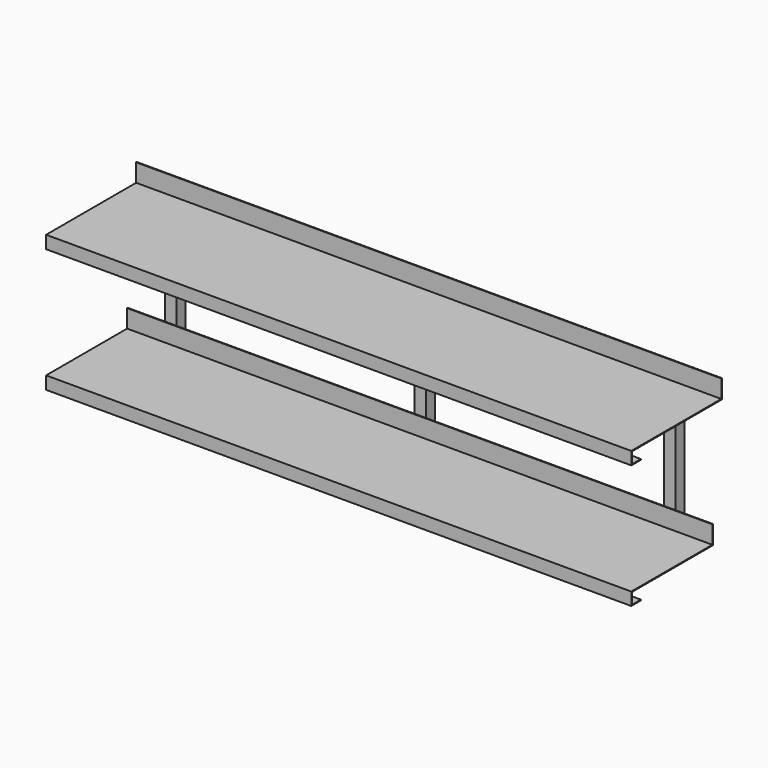
from build123d import *

# Parameters (mm, degrees)
F1_DEPTH      = 30
F5_DEPTH      = 30
F7_DEPTH      = 15
F7_DEPTH_BACK = 15
F9_DEPTH      = 780
F9_DEPTH_BACK = 780


with BuildPart() as f1:
    # F0 (on Right) → F1 (new body)
    with BuildSketch(Plane.YZ):
        Polygon((0, 30), (0, 0), (300, 0), (300, 360), (0, 360), (0, 330), (270, 330), (270, 30), align=None)
    extrude(amount=F1_DEPTH)



with BuildPart() as f5:
    # F4 (on offset) → F5 (new body)
    with BuildSketch(Plane.YZ.offset(1360)):
        Polygon((0, 30), (0, 0), (300, 0), (300, 360), (0, 360), (0, 330), (270, 330), (270, 30), align=None)
    extrude(amount=-F5_DEPTH)


with BuildPart() as f7:
    # F6 (on mid) → F7 (new body, two sides)
    with BuildSketch(Plane.YZ.offset(680)) as f7_sk:
        Polygon((0, 30), (0, 0), (300, 0), (300, 360), (0, 360), (0, 330), (270, 330), (270, 30), align=None)
    extrude(amount=F7_DEPTH)
    extrude(f7_sk.sketch, amount=-F7_DEPTH_BACK)


with BuildPart() as f1_1:
    add(f1.part)

    add(f5.part)  # F9 merges F5

    add(f7.part)  # F9 merges F7
    # F8 (on mid) → F9 (join, two sides)
    with BuildSketch(Plane.YZ.offset(680)) as f9_sk:
        Polygon((30, 0), (0, 0), (0, 30), (270, 30), (270, 80), (268, 80), (268, 32), (-2, 32), (-2, -2), (30, -2), align=None)
        Polygon((30, 330), (0, 330), (0, 360), (300, 360), (300, 410), (298, 410), (298, 362), (-2, 362), (-2, 328), (30, 328), align=None)
    extrude(amount=F9_DEPTH)
    extrude(f9_sk.sketch, amount=-F9_DEPTH_BACK)


solid = f1_1.part
